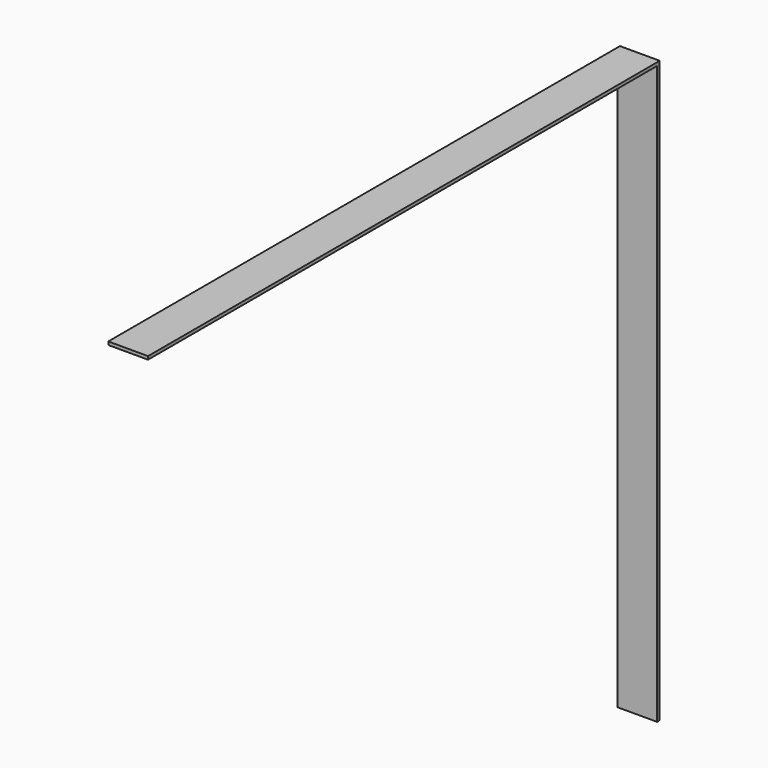
from build123d import *

# Parameters (mm, degrees)
F0_W     = 50
F0_H     = 4
F1_DEPTH = 800
F3_W     = 50
F3_H     = 4
F4_DEPTH = 730


with BuildPart() as f1:
    # F0 (on Front) → F1 (new body)
    with BuildSketch(Plane.XZ):
        with Locations((25, 2)):
            Rectangle(F0_W, F0_H)
    extrude(amount=F1_DEPTH)

    # F3 (on offset) → F4 (join)
    with BuildSketch(Plane.XY.offset(4)):
        with Locations((25, 2)):
            Rectangle(F3_W, F3_H)
    extrude(amount=-F4_DEPTH)


solid = f1.part
